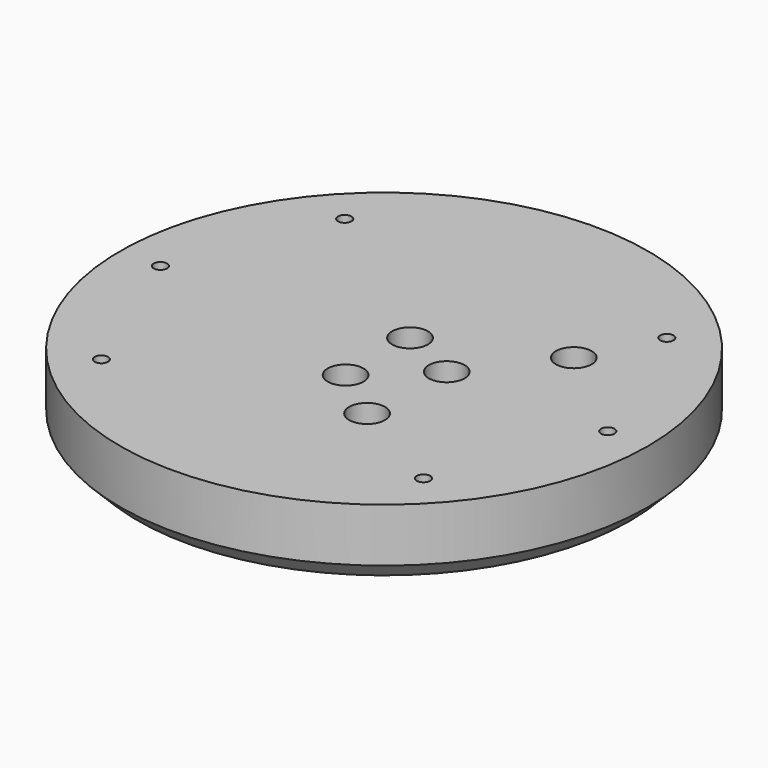
from build123d import *

# Parameters (mm, degrees)
CYLINDER1237_R     = 4
CYLINDER1237_DEPTH = 100
CYLINDER1236_R     = 4
CYLINDER1236_DEPTH = 100
CYLINDER1086_R     = 1.5
CYLINDER1086_DEPTH = 100
CYLINDER1087_R     = 1.5
CYLINDER1087_DEPTH = 100
CYLINDER1088_R     = 1.5
CYLINDER1088_DEPTH = 100
CYLINDER1089_R     = 1.5
CYLINDER1089_DEPTH = 100
CYLINDER1090_R     = 1.5
CYLINDER1090_DEPTH = 100
CYLINDER1085_R     = 1.5
CYLINDER1085_DEPTH = 100
CYLINDER1133_R     = 4
CYLINDER1133_DEPTH = 100
CYLINDER1134_R     = 4
CYLINDER1134_DEPTH = 100
CYLINDER1135_R     = 4
CYLINDER1135_DEPTH = 100
CYLINDER1131_R     = 4
CYLINDER1131_DEPTH = 100
CYLINDER1136_R     = 4
CYLINDER1136_DEPTH = 100
CYLINDER1132_R     = 4
CYLINDER1132_DEPTH = 100
CYLINDER1118_R     = 4
CYLINDER1118_DEPTH = 20
CYLINDER1119_R     = 4
CYLINDER1119_DEPTH = 20
CYLINDER1120_R     = 4
CYLINDER1120_DEPTH = 20
CYLINDER1121_R     = 4
CYLINDER1121_DEPTH = 40
CYLINDER1122_R     = 4
CYLINDER1122_DEPTH = 40
CYLINDER1123_R     = 4
CYLINDER1123_DEPTH = 40
CYLINDER1124_R     = 4
CYLINDER1124_DEPTH = 40
CYLINDER1117_R     = 4
CYLINDER1117_DEPTH = 20
CYLINDER1091_R     = 59
CYLINDER1091_DEPTH = 16
CHAMFER036_SIZE    = 4


with BuildPart() as obj1:
    # Cylinder1237 → Cylinder1237 (new body)
    with BuildSketch(Plane(origin=(14, 0, -18), x_dir=(1, 0, 0), z_dir=(0, 0, 1))):
        Circle(CYLINDER1237_R)
    extrude(amount=CYLINDER1237_DEPTH)


with BuildPart() as obj2:
    # Cylinder1236 → Cylinder1236 (new body)
    with BuildSketch(Plane(origin=(90, 0, -18), x_dir=(1, 0, 0), z_dir=(0, 0, 1))):
        Circle(CYLINDER1236_R)
    extrude(amount=CYLINDER1236_DEPTH)

    # Compound624: union obj1
    add(obj1.part)


with BuildPart() as obj3:
    # Cylinder1086 → Cylinder1086 (new body)
    with BuildSketch(Plane(origin=(-36, 34, -60), x_dir=(1, 0, 0), z_dir=(0, 0, 1))):
        Circle(CYLINDER1086_R)
    extrude(amount=CYLINDER1086_DEPTH)


with BuildPart() as obj4:
    # Cylinder1087 → Cylinder1087 (new body)
    with BuildSketch(Plane(origin=(-36, -34, -60), x_dir=(1, 0, 0), z_dir=(0, 0, 1))):
        Circle(CYLINDER1087_R)
    extrude(amount=CYLINDER1087_DEPTH)


with BuildPart() as obj5:
    # Cylinder1088 → Cylinder1088 (new body)
    with BuildSketch(Plane(origin=(50, 0, -60), x_dir=(1, 0, 0), z_dir=(0, 0, 1))):
        Circle(CYLINDER1088_R)
    extrude(amount=CYLINDER1088_DEPTH)


with BuildPart() as obj6:
    # Cylinder1089 → Cylinder1089 (new body)
    with BuildSketch(Plane(origin=(36, 34, -60), x_dir=(1, 0, 0), z_dir=(0, 0, 1))):
        Circle(CYLINDER1089_R)
    extrude(amount=CYLINDER1089_DEPTH)


with BuildPart() as obj7:
    # Cylinder1090 → Cylinder1090 (new body)
    with BuildSketch(Plane(origin=(36, -34, -60), x_dir=(1, 0, 0), z_dir=(0, 0, 1))):
        Circle(CYLINDER1090_R)
    extrude(amount=CYLINDER1090_DEPTH)


with BuildPart() as obj8:
    # Cylinder1085 → Cylinder1085 (new body)
    with BuildSketch(Plane(origin=(-50, 0, -60), x_dir=(1, 0, 0), z_dir=(0, 0, 1))):
        Circle(CYLINDER1085_R)
    extrude(amount=CYLINDER1085_DEPTH)

    # Compound560: union obj3, obj4, obj5, obj6, obj7
    add(obj3.part)
    add(obj4.part)
    add(obj5.part)
    add(obj6.part)
    add(obj7.part)


with BuildPart() as obj9:
    # Cylinder1133 → Cylinder1133 (new body)
    with BuildSketch(Plane(origin=(-36, 34, -90), x_dir=(1, 0, 0), z_dir=(0, 0, 1))):
        Circle(CYLINDER1133_R)
    extrude(amount=CYLINDER1133_DEPTH)


with BuildPart() as obj10:
    # Cylinder1134 → Cylinder1134 (new body)
    with BuildSketch(Plane(origin=(-36, -34, -90), x_dir=(1, 0, 0), z_dir=(0, 0, 1))):
        Circle(CYLINDER1134_R)
    extrude(amount=CYLINDER1134_DEPTH)


with BuildPart() as obj11:
    # Cylinder1135 → Cylinder1135 (new body)
    with BuildSketch(Plane(origin=(50, 0, -90), x_dir=(1, 0, 0), z_dir=(0, 0, 1))):
        Circle(CYLINDER1135_R)
    extrude(amount=CYLINDER1135_DEPTH)


with BuildPart() as obj12:
    # Cylinder1131 → Cylinder1131 (new body)
    with BuildSketch(Plane(origin=(36, 34, -90), x_dir=(1, 0, 0), z_dir=(0, 0, 1))):
        Circle(CYLINDER1131_R)
    extrude(amount=CYLINDER1131_DEPTH)


with BuildPart() as obj13:
    # Cylinder1136 → Cylinder1136 (new body)
    with BuildSketch(Plane(origin=(36, -34, -90), x_dir=(1, 0, 0), z_dir=(0, 0, 1))):
        Circle(CYLINDER1136_R)
    extrude(amount=CYLINDER1136_DEPTH)


with BuildPart() as obj14:
    # Cylinder1132 → Cylinder1132 (new body)
    with BuildSketch(Plane(origin=(-50, 0, -90), x_dir=(1, 0, 0), z_dir=(0, 0, 1))):
        Circle(CYLINDER1132_R)
    extrude(amount=CYLINDER1132_DEPTH)

    # Compound566: union obj9, obj10, obj11, obj12, obj13
    add(obj9.part)
    add(obj10.part)
    add(obj11.part)
    add(obj12.part)
    add(obj13.part)


with BuildPart() as obj15:
    # Cylinder1118 → Cylinder1118 (new body)
    with BuildSketch(Plane(origin=(103, 6, -20), x_dir=(1, 0, 0), z_dir=(0, 0, 1))):
        Circle(CYLINDER1118_R)
    extrude(amount=CYLINDER1118_DEPTH)


with BuildPart() as obj16:
    # Cylinder1119 → Cylinder1119 (new body)
    with BuildSketch(Plane(origin=(76, 18, -18), x_dir=(1, 0, 0), z_dir=(0, 0, 1))):
        Circle(CYLINDER1119_R)
    extrude(amount=CYLINDER1119_DEPTH)


with BuildPart() as obj17:
    # Cylinder1120 → Cylinder1120 (new body)
    with BuildSketch(Plane(origin=(91, -21, -18), x_dir=(1, 0, 0), z_dir=(0, 0, 1))):
        Circle(CYLINDER1120_R)
    extrude(amount=CYLINDER1120_DEPTH)


with BuildPart() as obj18:
    # Cylinder1121 → Cylinder1121 (new body)
    with BuildSketch(Plane(origin=(13, -21, -18), x_dir=(1, 0, 0), z_dir=(0, 0, 1))):
        Circle(CYLINDER1121_R)
    extrude(amount=CYLINDER1121_DEPTH)


with BuildPart() as obj19:
    # Cylinder1122 → Cylinder1122 (new body)
    with BuildSketch(Plane(origin=(28, 18, -18), x_dir=(1, 0, 0), z_dir=(0, 0, 1))):
        Circle(CYLINDER1122_R)
    extrude(amount=CYLINDER1122_DEPTH)


with BuildPart() as obj20:
    # Cylinder1123 → Cylinder1123 (new body)
    with BuildSketch(Plane(origin=(1, -12, -18), x_dir=(1, 0, 0), z_dir=(0, 0, 1))):
        Circle(CYLINDER1123_R)
    extrude(amount=CYLINDER1123_DEPTH)


with BuildPart() as obj21:
    # Cylinder1124 → Cylinder1124 (new body)
    with BuildSketch(Plane(origin=(1, 6, -18), x_dir=(1, 0, 0), z_dir=(0, 0, 1))):
        Circle(CYLINDER1124_R)
    extrude(amount=CYLINDER1124_DEPTH)


with BuildPart() as obj22:
    # Cylinder1117 → Cylinder1117 (new body)
    with BuildSketch(Plane(origin=(103, -12, -20), x_dir=(1, 0, 0), z_dir=(0, 0, 1))):
        Circle(CYLINDER1117_R)
    extrude(amount=CYLINDER1117_DEPTH)

    # Compound564: union obj15, obj16, obj17, obj18, obj19, obj20, obj21
    add(obj15.part)
    add(obj16.part)
    add(obj17.part)
    add(obj18.part)
    add(obj19.part)
    add(obj20.part)
    add(obj21.part)


with BuildPart() as cut294:
    # Cylinder1091 → Cylinder1091 (new body)
    with BuildSketch(Plane.XY.offset(2)):
        Circle(CYLINDER1091_R)
    extrude(amount=CYLINDER1091_DEPTH)

    # Cut249: cut obj22
    add(obj22.part, mode=Mode.SUBTRACT)

    # Cut253: cut obj14
    add(obj14.part, mode=Mode.SUBTRACT)

    # Cut255: cut obj8
    add(obj8.part, mode=Mode.SUBTRACT)

    # Chamfer036
    chamfer036_edges = [cut294.edges().sort_by_distance(p)[0] for p in [
        (-59, 0, 2),
    ]]
    chamfer(chamfer036_edges, length=CHAMFER036_SIZE)

    # Cut294: cut obj2
    add(obj2.part, mode=Mode.SUBTRACT)


with BuildPart() as cut294_1:
    # Cut294 placement: moved
    add(cut294.part.moved(Location((0, 0, 4))))


solid = cut294_1.part
